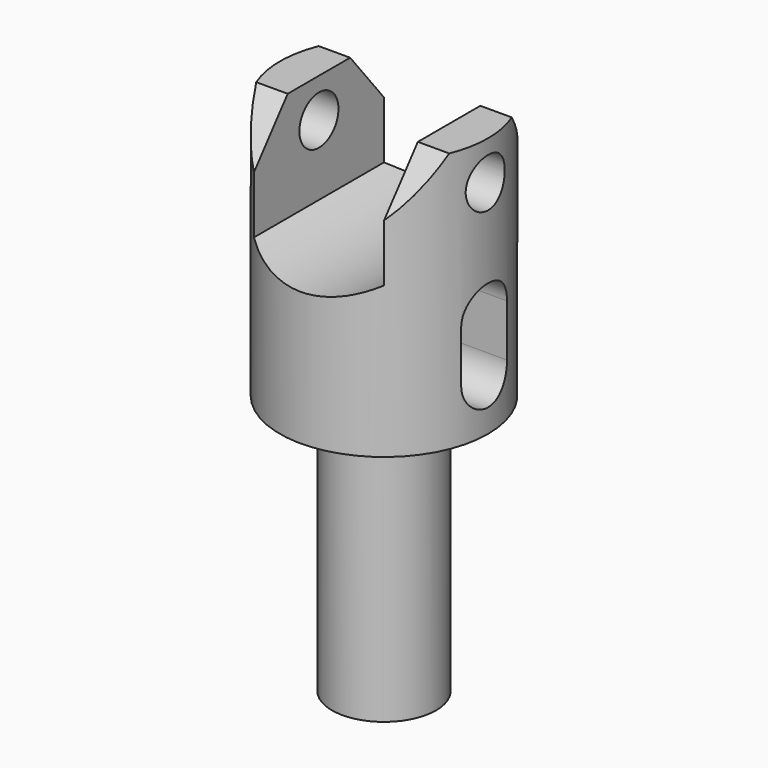
from build123d import *

# Parameters (mm, degrees)
F0_R          = 5.08
F1_DEPTH      = 12.7
F2_R          = 2.54
F3_DEPTH      = 12.7
F4_W          = 6.35
F4_H          = 5.08
F5_DEPTH      = 12.7
F7_DEPTH      = 5.081
F7_DEPTH_BACK = 5.081
F8_R          = 1.190625
F9_DEPTH      = 5.0810001
F9_DEPTH_BACK = 5.0810001
F11_DEPTH     = 12.7
F13_DEPTH     = 12.7


with BuildPart() as f1:
    # F0 (on Top) → F1 (new body)
    with BuildSketch(Plane.XY):
        Circle(F0_R)
    extrude(amount=F1_DEPTH)

    # F2 (on face) → F3 (join)
    with BuildSketch(Plane(origin=(0, 0, 0), x_dir=(1, 0, 0), z_dir=(0, 0, -1))):
        Circle(F2_R)
    extrude(amount=F3_DEPTH)

    # F4 (on Front) → F5 (cut, symmetric)
    with BuildSketch(Plane.XZ):
        with Locations((0, 10.16)):
            Rectangle(F4_W, F4_H)
    extrude(amount=F5_DEPTH, both=True, mode=Mode.SUBTRACT)

    # F6 (on Right) → F7 (cut, two sides)
    with BuildSketch(Plane.YZ) as f7_sk:
        with BuildLine():
            ThreePointArc((1.397, 5.08), (0, 6.477), (-1.397, 5.08))
            Line((-1.397, 5.08), (-1.397, 2.54))
            ThreePointArc((-1.397, 2.54), (0, 1.143), (1.397, 2.54))
            Line((1.397, 2.54), (1.397, 5.08))
        make_face()
    extrude(amount=F7_DEPTH, mode=Mode.SUBTRACT)
    extrude(f7_sk.sketch, amount=-F7_DEPTH_BACK, mode=Mode.SUBTRACT)

    # F8 (on Right) → F9 (cut, two sides)
    with BuildSketch(Plane.YZ) as f9_sk:
        with Locations((0, 10.795)):
            Circle(F8_R)
    extrude(amount=-F9_DEPTH, mode=Mode.SUBTRACT)
    extrude(f9_sk.sketch, amount=F9_DEPTH_BACK, mode=Mode.SUBTRACT)

    # F10 (on face) → F11 (cut, symmetric)
    with BuildSketch(Plane(origin=(3.175, 0, 0), x_dir=(0, -1, 0), z_dir=(-1, 0, 0))):
        Polygon((3.965573729, 10.16), (3.965573729, 12.7), (1.905, 12.7), align=None)
        Polygon((-3.965573729, 10.16), (-1.905, 12.7), (-3.965573729, 12.7), align=None)
    extrude(amount=F11_DEPTH, both=True, mode=Mode.SUBTRACT)

    # F12 (on Front) → F13 (cut, symmetric)
    with BuildSketch(Plane.XZ):
        with BuildLine():
            Line((3.175, 7.366), (3.175, 7.62))
            Line((3.175, 7.62), (-3.175, 7.62))
            Line((-3.175, 7.62), (-3.175, 7.366))
            ThreePointArc((-3.175, 7.366), (0, 6.515261314), (3.175, 7.366))
        make_face()
    extrude(amount=F13_DEPTH, both=True, mode=Mode.SUBTRACT)


solid = f1.part
